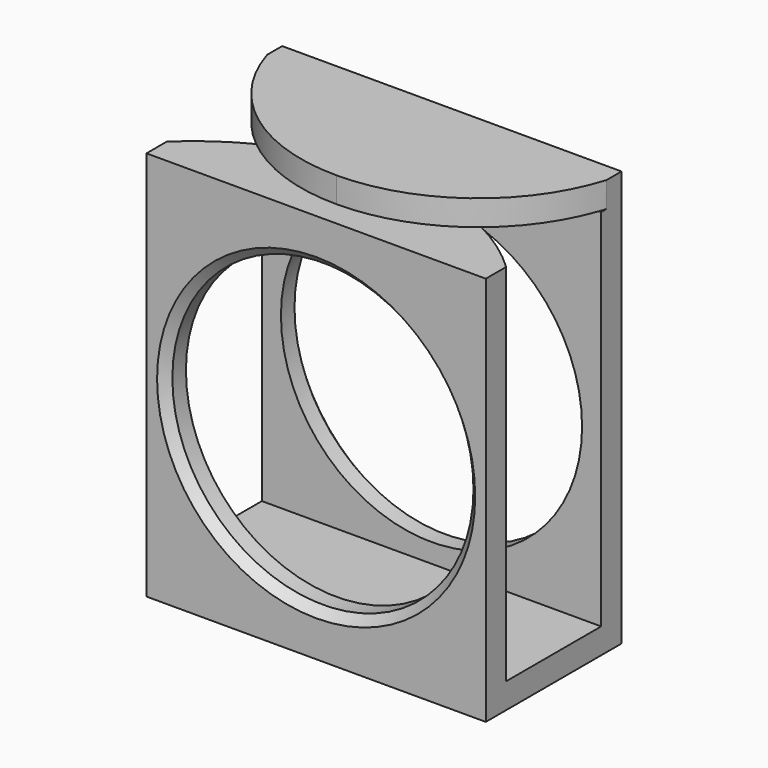
from build123d import *

# Parameters (mm, degrees)
F0_W          = 7
F0_H          = 20
F2_DEPTH      = 10
F2_DEPTH_BACK = 10
F1_R          = 8.875
F3_DEPTH      = 25
F3_DEPTH_BACK = 25
F5_DEPTH      = 1.5
F7_DEPTH      = 1.5
F8_SIZE       = 0.5


with BuildPart() as f2:
    # F0 (on Right) → F2 (new body, two sides)
    with BuildSketch(Plane.YZ) as f2_sk:
        Polygon((5, 11.5), (3.5, 11.5), (-3.5, 11.5), (-5, 11.5), (-5, -11.5), (5, -11.5), align=None)
        Rectangle(F0_W, F0_H, mode=Mode.SUBTRACT)
        Polygon((-3.5, 11.5), (3.5, 11.5), (5, 11.5), (5, 13), (-3.5, 13), align=None)
    extrude(amount=F2_DEPTH)
    extrude(f2_sk.sketch, amount=-F2_DEPTH_BACK)

    # F1 (on Front) → F3 (cut, two sides)
    with BuildSketch(Plane.XZ) as f3_sk:
        Circle(F1_R)
    extrude(amount=-F3_DEPTH, mode=Mode.SUBTRACT)
    extrude(f3_sk.sketch, amount=F3_DEPTH_BACK, mode=Mode.SUBTRACT)

    # F4 (on face) → F5 (cut)
    with BuildSketch(Plane.XY.offset(13)):
        with BuildLine():
            ThreePointArc((0, -3.5), (-6.220128616, -1.4488224541), (-10, 3.9))
            Line((-10, 3.9), (-10, -3.5))
            Line((-10, -3.5), (0, -3.5))
        make_face()
        with BuildLine():
            ThreePointArc((10, 3.9), (6.220128616, -1.4488224541), (0, -3.5))
            Line((0, -3.5), (10, -3.5))
            Line((10, -3.5), (10, 3.9))
        make_face()
    extrude(amount=-F5_DEPTH, mode=Mode.SUBTRACT)

    # F6 (on face) → F7 (cut)
    with BuildSketch(Plane(origin=(0, 0, 10), x_dir=(1, 0, 0), z_dir=(0, 0, -1))):
        with BuildLine():
            ThreePointArc((10, 3.5), (0, -0.4807811985), (-10, 3.5))
            Line((-10, 3.5), (-10, -3.5))
            Line((-10, -3.5), (10, -3.5))
            Line((10, -3.5), (10, 3.5))
        make_face()
    extrude(amount=-F7_DEPTH, mode=Mode.SUBTRACT)

    # F8
    f8_edges = [f2.edges().sort_by_distance(p)[0] for p in [
        (-8.875, -5, 0),
        (-8.875, 5, 0),
    ]]
    chamfer(f8_edges, length=F8_SIZE)


solid = f2.part
